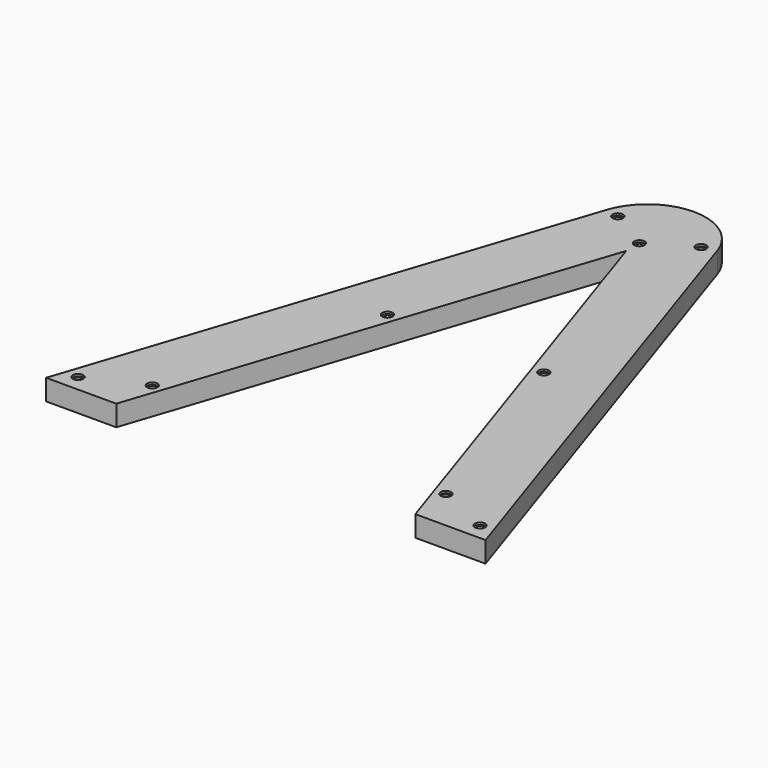
from build123d import *

# Parameters (mm, degrees)
F1_DEPTH = 5
F2_R     = 0.75
F3_DEPTH = 4.5
F4_R     = 1.25
F5_DEPTH = 0.5


with BuildPart() as f1:
    # F0 (on Top) → F1 (new body)
    with BuildSketch(Plane.XY):
        with BuildLine():
            Line((-101.1249, -149.980971), (-65.215021, -41.793592))
            Line((-65.215021, -41.793592), (-29.305143, -149.980971))
            Line((-29.305143, -149.980971), (-12.446784, -149.980971))
            Line((-12.446784, -149.980971), (-51.997887, -30.823505))
            ThreePointArc((-51.997887, -30.823505), (-65.215021, -21.439494), (-78.432156, -30.823505))
            Line((-78.432156, -30.823505), (-117.983259, -149.980971))
            Line((-117.983259, -149.980971), (-101.1249, -149.980971))
        make_face()
    extrude(amount=F1_DEPTH)

    # F2 (on face) → F3 (cut)
    with BuildSketch(Plane.XY.offset(5)):
        with Locations((-65.215021, -37.793592)):
            Circle(F2_R)
        with Locations((-113.483259, -145.980971)):
            Circle(F2_R)
        with Locations((-100.483259, -139.980971)):
            Circle(F2_R)
        with Locations((-29.946784, -139.980971)):
            Circle(F2_R)
        with Locations((-16.946784, -145.980971)):
            Circle(F2_R)
        with Locations((-83.983259, -89.980971)):
            Circle(F2_R)
        with Locations((-46.446784, -89.980971)):
            Circle(F2_R)
        with Locations((-75.215021, -31.793592)):
            Circle(F2_R)
        with Locations((-55.215021, -31.793592)):
            Circle(F2_R)
    extrude(amount=-F3_DEPTH, mode=Mode.SUBTRACT)

    # F4 (on face) → F5 (cut)
    with BuildSketch(Plane.XY.offset(5)):
        with Locations((-75.215021, -31.793592)):
            Circle(F4_R)
        with Locations((-65.215021, -37.793592)):
            Circle(F4_R)
        with Locations((-55.215021, -31.793592)):
            Circle(F4_R)
        with Locations((-46.446784, -89.980971)):
            Circle(F4_R)
        with Locations((-83.983259, -89.980971)):
            Circle(F4_R)
        with Locations((-16.946784, -145.980971)):
            Circle(F4_R)
        with Locations((-29.946784, -139.980971)):
            Circle(F4_R)
        with Locations((-100.483259, -139.980971)):
            Circle(F4_R)
        with Locations((-113.483259, -145.980971)):
            Circle(F4_R)
    extrude(amount=-F5_DEPTH, mode=Mode.SUBTRACT)


solid = f1.part
